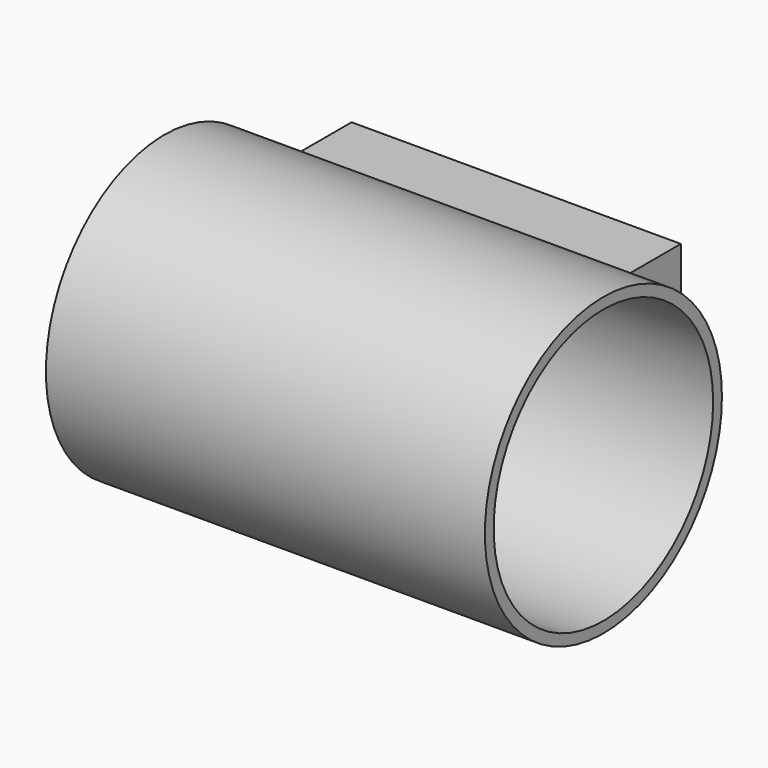
from build123d import *

# Parameters (mm, degrees)
F0_R     = 63.5
F1_DEPTH = 101.6
F2_DEPTH = 76.2


with BuildPart() as f1:
    # F0 (on Right) → F1 (new body, symmetric)
    with BuildSketch(Plane.YZ):
        with BuildLine():
            ThreePointArc((46.071427, -50.8), (62.700857, -27.78163), (68.58, 0))
            ThreePointArc((68.58, 0), (62.700857, 27.78163), (46.071427, 50.8))
            ThreePointArc((46.071427, 50.8), (-68.58, 0), (46.071427, -50.8))
        make_face()
        Circle(F0_R, mode=Mode.SUBTRACT)
    extrude(amount=F1_DEPTH, both=True)

    # F0 (on Right) → F2 (join, symmetric)
    with BuildSketch(Plane.YZ):
        with BuildLine():
            ThreePointArc((46.071427, 50.8), (62.700857, 27.78163), (68.58, 0))
            ThreePointArc((68.58, 0), (62.700857, -27.78163), (46.071427, -50.8))
            Line((46.071427, -50.8), (76.551427, -50.8))
            Line((76.551427, -50.8), (76.551427, 0))
            Line((76.551427, 0), (76.551427, 50.8))
            Line((76.551427, 50.8), (46.071427, 50.8))
        make_face()
    extrude(amount=F2_DEPTH, both=True)


solid = f1.part
